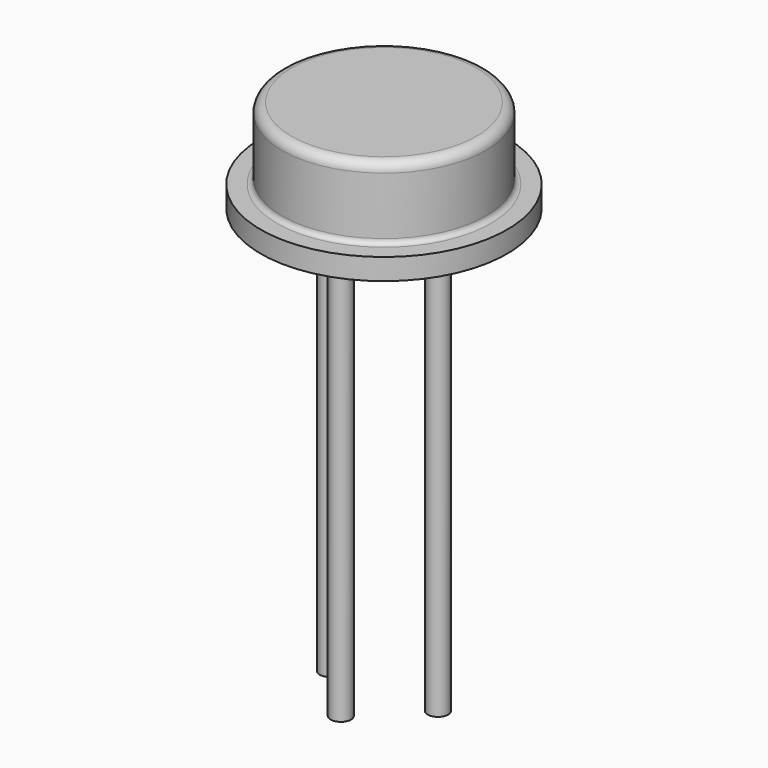
from build123d import *

# Parameters (mm, degrees)
SKETCH_R     = 0.24
PAD_DEPTH    = 10
PAD003_DEPTH = 0.5


with BuildPart() as pad:
    # Sketch → Pad (new body)
    with BuildSketch(Plane.XY.offset(5)):
        Circle(SKETCH_R)
        with Locations((2.54, 0)):
            Circle(SKETCH_R)
        with Locations((1.27, -1.27)):
            Circle(SKETCH_R)
    extrude(amount=-PAD_DEPTH)


with BuildPart() as revolution:
    # Sketch003 → Revolution (revolve)
    with BuildSketch(Plane.XZ):
        with BuildLine():
            Line((1.27, 5), (-1.63, 5))
            Line((-1.63, 5), (-1.63, 5.5))
            Line((-1.63, 5.5), (-1.246699, 5.503024))
            ThreePointArc((-1.246699, 5.503024), (-1.164125, 5.537801), (-1.13, 5.620646))
            Line((-1.13, 5.620646), (-1.13, 6.97692))
            ThreePointArc((-0.90692, 7.2), (-1.064661, 7.134661), (-1.13, 6.97692))
            Line((-0.90692, 7.2), (1.27, 7.2))
            Line((1.27, 7.2), (1.27, 5))
        make_face()
    revolve(axis=Axis((1.27, 0, 2.550668), (0, 0, 1)))


with BuildPart() as pad003:
    # Sketch004 → Pad003 (new body)
    with BuildSketch(Plane.XY.offset(5)):
        Polygon((1.680122, 0.410122), (-1.197803, 3.288047), (-2.018047, 2.467803), (0.859878, -0.410122), align=None)
    extrude(amount=PAD003_DEPTH)


solid = Compound([pad.part, revolution.part, pad003.part])
